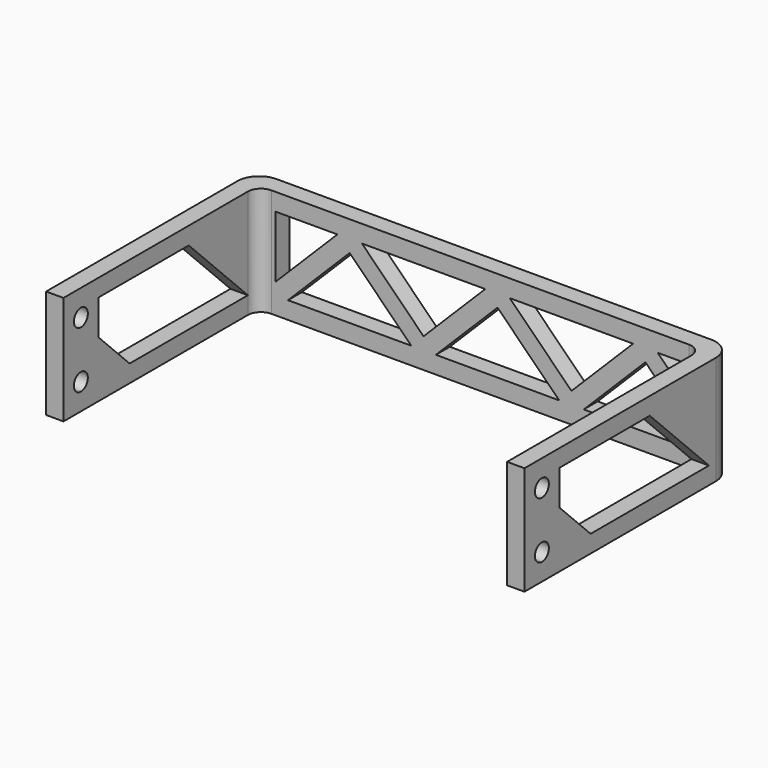
from build123d import *

# Parameters (mm, degrees)
F1_DEPTH = 25
F3_DEPTH = 25
F5_DEPTH = 200


with BuildPart() as f1:
    # F0 (on Top) → F1 (new body)
    with BuildSketch(Plane.XY):
        with BuildLine():
            Line((0, 53), (0, 0))
            Line((0, 0), (4, 0))
            Line((4, 0), (4, 55))
            ThreePointArc((4, 55), (2.5355339059, 58.5355339059), (-1, 60))
            Line((-1, 60), (-101, 60))
            ThreePointArc((-101, 60), (-104.5355339059, 58.5355339059), (-106, 55))
            Line((-106, 55), (-106, 0))
            Line((-106, 0), (-102, 0))
            Line((-102, 0), (-102, 53))
            ThreePointArc((-102, 53), (-101.1213203436, 55.1213203436), (-99, 56))
            Line((-99, 56), (-3, 56))
            ThreePointArc((-3, 56), (-0.8786796564, 55.1213203436), (0, 53))
        make_face()
    extrude(amount=F1_DEPTH)

    # F2 (on face) → F3 (cut)
    with BuildSketch(Plane.XZ.offset(-56)):
        Polygon((-49.8284271247, 21), (-78.1715728753, 21), (-64, 6.8284271247), align=None)
        Polygon((-30, 6.8284271247), (-15.8284271247, 21), (-44.1715728753, 21), align=None)
        Polygon((-95.1715728753, 4), (-66.8284271247, 4), (-81, 18.1715728753), align=None)
        Polygon((-10.1715728753, 21), (-3, 13.8284271247), (-3, 21), align=None)
        Polygon((-98, 21), (-98, 6.8284271247), (-83.8284271247, 21), align=None)
        Polygon((-61.1715728753, 4), (-32.8284271247, 4), (-47, 18.1715728753), align=None)
        Polygon((-4.4142135624, 9.5857864376), (-13, 18.1715728753), (-27.1715728753, 4), (-3, 4), (-3, 8.1715728753), align=None)
    extrude(amount=-F3_DEPTH, mode=Mode.SUBTRACT)

    # F4 (on face) → F5 (cut)
    with BuildSketch(Plane(origin=(-106, 0, 0), x_dir=(0, -1, 0), z_dir=(-1, 0, 0))):
        with BuildLine():
            ThreePointArc((-5, 21), (-6.4142135624, 17.5857864376), (-3, 19))
            ThreePointArc((-3, 19), (-3.5857864376, 20.4142135624), (-5, 21))
        make_face()
        with BuildLine():
            ThreePointArc((-3, 6), (-6.4142135624, 7.4142135624), (-5, 4))
            ThreePointArc((-5, 4), (-3.5857864376, 4.5857864376), (-3, 6))
        make_face()
        Polygon((-10, 13), (-10, 21), (-36, 21), (-19, 4), align=None)
        Polygon((-19, 4), (-36, 21), (-53, 4), align=None)
    extrude(amount=-F5_DEPTH, mode=Mode.SUBTRACT)


solid = f1.part
